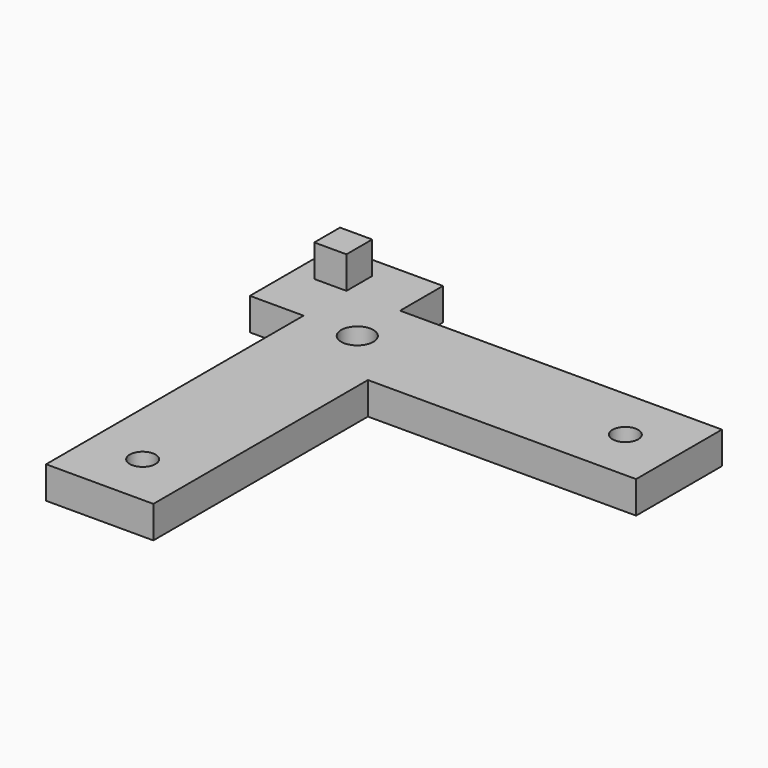
from build123d import *

# Parameters (mm, degrees)
BOX002_W      = 8
BOX002_H      = 5
BOX002_DEPTH  = 3
SKETCH_R      = 3
SKETCH_R_2    = 2.2
PAD_DEPTH     = 3
BOX_W         = 3
BOX_H         = 3
BOX_DEPTH     = 6
BOX001_W      = 8
BOX001_H      = 5
BOX001_DEPTH  = 3
SKETCH001_R   = 1.5
SKETCH001_R_2 = 1.2
PAD001_DEPTH  = 3
SKETCH002_W   = 5
SKETCH002_H   = 5
PAD002_DEPTH  = 3


with BuildPart() as box002:
    # Box002 → Box002 (new body)
    with BuildSketch(Plane(origin=(-8, 5, 0), x_dir=(0, 1, 0), z_dir=(0, 0, 1))):
        with Locations((4, 2.5)):
            Rectangle(BOX002_W, BOX002_H)
    extrude(amount=BOX002_DEPTH)


with BuildPart() as body:
    # Sketch → Pad (new body)
    with BuildSketch(Plane.XY):
        Polygon((0, 0), (0, -25), (-10, -25), (-10, 10), (25, 10), (25, 0), align=None)
        with Locations((-5, 5)):
            Circle(SKETCH_R, mode=Mode.SUBTRACT)
        with Locations((20, 5)):
            Circle(SKETCH_R_2, mode=Mode.SUBTRACT)
        with Locations((-5, -20)):
            Circle(SKETCH_R_2, mode=Mode.SUBTRACT)
    extrude(amount=PAD_DEPTH)


with BuildPart() as box:
    # Box → Box (new body)
    with BuildSketch(Plane(origin=(-13, 10, 0), x_dir=(1, 0, 0), z_dir=(0, 0, 1))):
        with Locations((1.5, 1.5)):
            Rectangle(BOX_W, BOX_H)
    extrude(amount=BOX_DEPTH)


with BuildPart() as fusion002:
    # Box001 → Box001 (new body)
    with BuildSketch(Plane(origin=(-13, 8, 0), x_dir=(1, 0, 0), z_dir=(0, 0, 1))):
        with Locations((4, 2.5)):
            Rectangle(BOX001_W, BOX001_H)
    extrude(amount=BOX001_DEPTH)

    # Fusion: union Box
    add(box.part)

    # Fusion001: union Body
    add(body.part)

    # Fusion002: union Box002
    add(box002.part)


with BuildPart() as body001:
    # Sketch001 → Pad001 (new body)
    with BuildSketch(Plane.XY):
        Polygon((25, 10), (-5, 10), (-5, 15), (-15, 15), (-15, 5), (-10, 5), (-10, -25), (0, -25), (0, 0), (25, 0), align=None)
        with Locations((-4.949747, 4.949747)):
            Circle(SKETCH001_R, mode=Mode.SUBTRACT)
        with Locations((20, 5)):
            Circle(SKETCH001_R_2, mode=Mode.SUBTRACT)
        with Locations((-5, -20)):
            Circle(SKETCH001_R_2, mode=Mode.SUBTRACT)
    extrude(amount=PAD001_DEPTH)

    # Sketch002 (on Face12 of Pad001) → Pad002 (join)
    with BuildSketch(Plane(origin=(0, 0, 0), x_dir=(1, 0, 0), z_dir=(0, 0, -1))):
        with Locations((-12.5, -12.5)):
            Rectangle(SKETCH002_W, SKETCH002_H)
    extrude(amount=PAD002_DEPTH)


solid = Compound([fusion002.part, body001.part])
